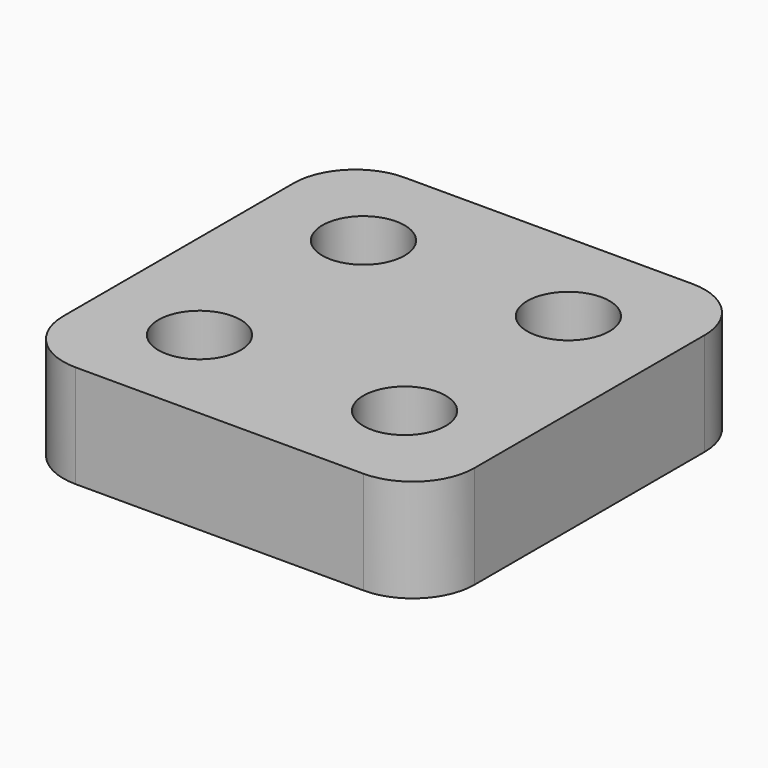
from build123d import *

# Parameters (mm, degrees)
F1_DEPTH      = 6.35
F2_R          = 2.54
F3_DEPTH      = 25.4
F3_DEPTH_BACK = 25.4


with BuildPart() as f1:
    # F0 (on Top) → F1 (new body)
    with BuildSketch(Plane.XY):
        with BuildLine():
            Line((-8.89, -12.7), (8.89, -12.7))
            ThreePointArc((8.89, -12.7), (11.584077, -11.584077), (12.7, -8.89))
            Line((12.7, -8.89), (12.7, 8.89))
            ThreePointArc((12.7, 8.89), (11.584077, 11.584077), (8.89, 12.7))
            Line((8.89, 12.7), (-8.89, 12.7))
            ThreePointArc((-8.89, 12.7), (-11.584077, 11.584077), (-12.7, 8.89))
            Line((-12.7, 8.89), (-12.7, -8.89))
            ThreePointArc((-12.7, -8.89), (-11.584077, -11.584077), (-8.89, -12.7))
        make_face()
    extrude(amount=F1_DEPTH)

    # F2 (on Top) → F3 (cut, two sides)
    with BuildSketch(Plane.XY) as f3_sk:
        with Locations((-6.336518, -6.325952)):
            Circle(F2_R)
        with Locations((6.331818, -6.326862)):
            Circle(F2_R)
        with Locations((6.324662, 6.333847)):
            Circle(F2_R)
        with Locations((-6.33241, 6.329887)):
            Circle(F2_R)
    extrude(amount=F3_DEPTH, mode=Mode.SUBTRACT)
    extrude(f3_sk.sketch, amount=-F3_DEPTH_BACK, mode=Mode.SUBTRACT)


solid = f1.part
